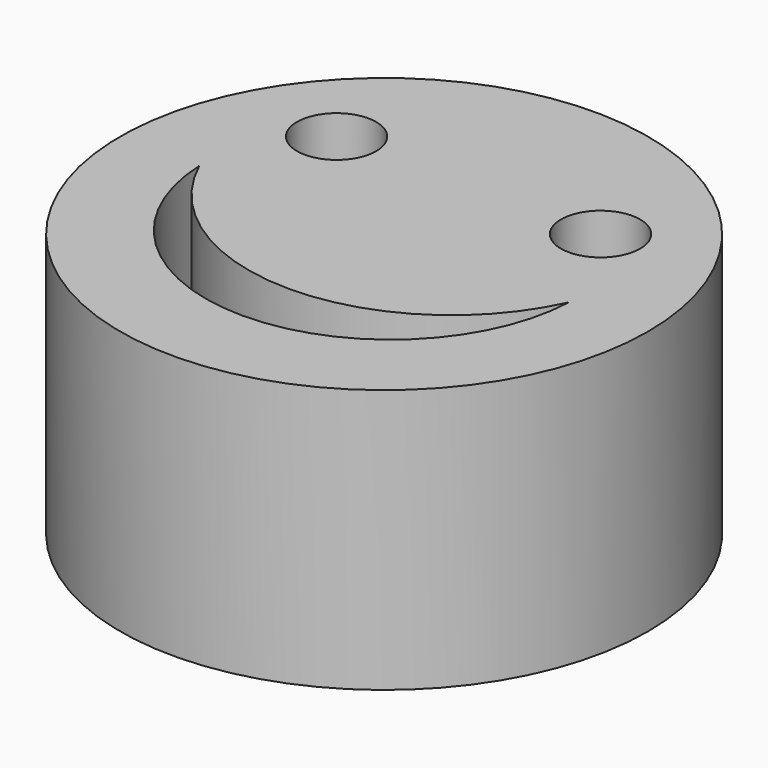
from build123d import *

# Parameters (mm, degrees)
F0_R     = 25.4
F0_R_2   = 3.81
F1_DEPTH = 25.4


with BuildPart() as f1:
    # F0 (on Top) → F1 (new body)
    with BuildSketch(Plane.XY):
        Circle(F0_R)
        with BuildLine():
            ThreePointArc((17.78, 0), (0, -17.018), (-17.78, 0))
            ThreePointArc((-17.78, 0), (0, -11.43), (17.78, 0))
        make_face(mode=Mode.SUBTRACT)
        with Locations((-12.7, 10.16)):
            Circle(F0_R_2, mode=Mode.SUBTRACT)
        with Locations((12.7, 10.16)):
            Circle(F0_R_2, mode=Mode.SUBTRACT)
    extrude(amount=F1_DEPTH)


solid = f1.part
